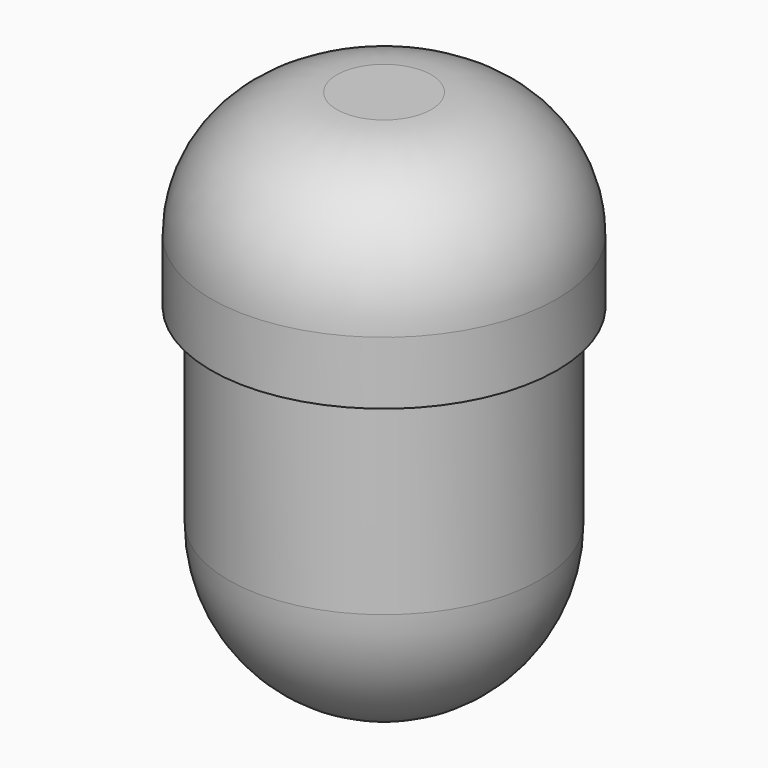
from build123d import *

# Parameters (mm, degrees)
F0_R     = 2.75
F1_DEPTH = 3
F2_R     = 2
F3_R     = 2.475
F4_DEPTH = 5.5
F5_R     = 2.475


with BuildPart() as f1:
    # F0 (on Top) → F1 (new body)
    with BuildSketch(Plane.XY):
        Circle(F0_R)
    extrude(amount=F1_DEPTH)

    # F2
    f2_edges = [f1.edges().sort_by_distance(p)[0] for p in [
        (-2.75, 0, 3),
    ]]
    fillet(f2_edges, radius=F2_R)

    # F3 (on face) → F4 (join)
    with BuildSketch(Plane(origin=(0, 0, 0), x_dir=(1, 0, 0), z_dir=(0, 0, -1))):
        Circle(F3_R)
    extrude(amount=F4_DEPTH)

    # F5
    f5_edges = [f1.edges().sort_by_distance(p)[0] for p in [
        (-2.475, 0, -5.5),
    ]]
    fillet(f5_edges, radius=F5_R)


solid = f1.part
